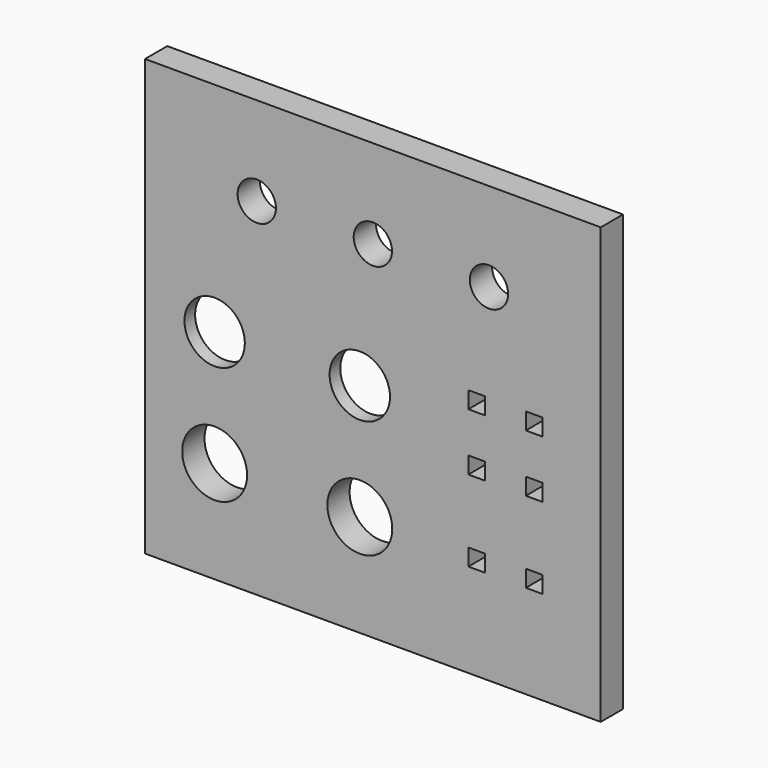
from build123d import *

# Parameters (mm, degrees)
F0_W     = 78.5
F0_H     = 75
F1_DEPTH = 4.8
F2_R     = 5.2
F2_R_2   = 5.59
F2_R_3   = 3.3
F2_W     = 2.9
F2_H     = 2.9
F3_DEPTH = 4.801
F4_R     = 10
F5_DEPTH = 2.5
F6_R     = 2


with BuildPart() as f1:
    # F0 (on Front) → F1 (new body)
    with BuildSketch(Plane.XZ):
        Rectangle(F0_W, F0_H)
    extrude(amount=F1_DEPTH)

    # F2 (on face) → F3 (cut, through all)
    with BuildSketch(Plane.XZ.offset(4.8)):
        with Locations((-27.25, 0)):
            Circle(F2_R)
        with Locations((-27.25, -19.91)):
            Circle(F2_R_2)
        with Locations((-2.25, -19.91)):
            Circle(F2_R_2)
        with Locations((-2.25, 0)):
            Circle(F2_R)
        with Locations((0, 22.2)):
            Circle(F2_R_3)
        with Locations((-20, 22.2)):
            Circle(F2_R_3)
        with Locations((20, 22.2)):
            Circle(F2_R_3)
        with Locations((17.9, 3.948761)):
            Rectangle(F2_W, F2_H)
        with Locations((27.8, 3.948761)):
            Rectangle(F2_W, F2_H)
        with Locations((17.9, -5.951239)):
            Rectangle(F2_W, F2_H)
        with Locations((27.8, -5.951239)):
            Rectangle(F2_W, F2_H)
        with Locations((17.9, -19.91)):
            Rectangle(F2_W, F2_H)
        with Locations((27.8, -19.91)):
            Rectangle(F2_W, F2_H)
    extrude(amount=-F3_DEPTH, mode=Mode.SUBTRACT)

    # F4 (on face) → F5 (cut)
    with BuildSketch(Plane(origin=(0, 0, 0), x_dir=(-1, 0, 0), z_dir=(0, 1, 0))):
        with Locations((2.25, 0)):
            Circle(F4_R)
        with Locations((27.25, 0)):
            Circle(F4_R)
    extrude(amount=-F5_DEPTH, mode=Mode.SUBTRACT)

    # F6
    f6_edges = [f1.edges().sort_by_distance(p)[0] for p in [
        (7.75, -2.5, 0),
        (-17.25, -2.5, 0),
    ]]
    fillet(f6_edges, radius=F6_R)


solid = f1.part
